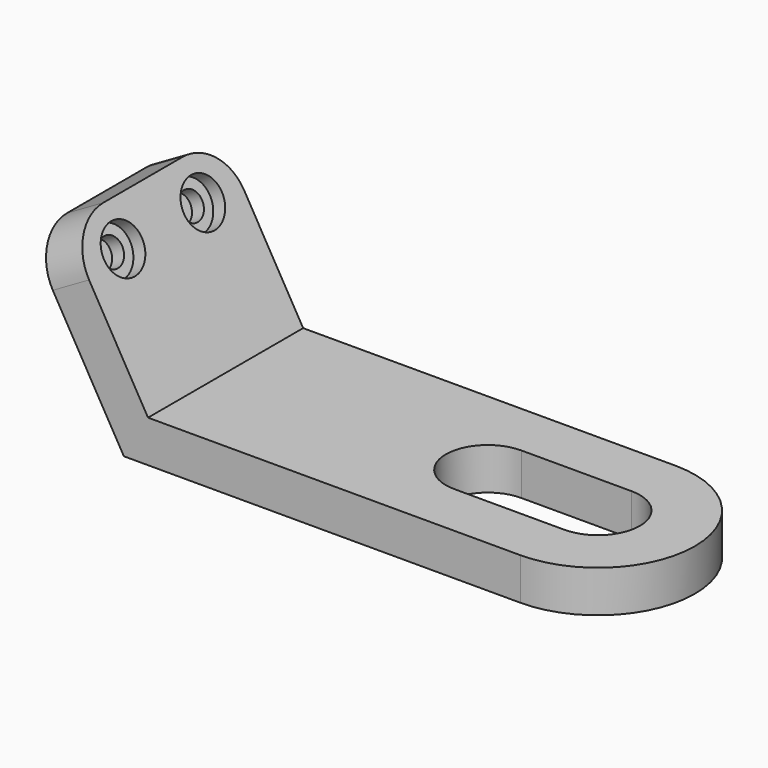
from build123d import *

# Parameters (mm, degrees)
F1_DEPTH = 44.704
F3_DEPTH = 9.652
F4_DEPTH = 25.4
F5_R     = 10.922
F6_R     = 5.461
F6_R_2   = 3.175
F7_DEPTH = 3.175
F8_DEPTH = 6.35


with BuildPart() as f1:
    # F0 (on Front) → F1 (new body)
    with BuildSketch(Plane.XZ):
        Polygon((-5.5725847982, 0), (85.852, 0), (85.852, 9.652), (0, 9.652), (-19.05, 42.6475678842), (-27.4088771973, 37.8215678842), align=None)
    extrude(amount=F1_DEPTH)

    # F2 (on face) → F3 (join)
    with BuildSketch(Plane.XY.offset(9.652)):
        with BuildLine():
            ThreePointArc((85.852, -12.7), (92.676994652, -15.527005348), (95.504, -22.352))
            ThreePointArc((95.504, -22.352), (92.676994652, -29.176994652), (85.852, -32.004))
            Line((85.852, -32.004), (85.852, -44.704))
            ThreePointArc((85.852, -44.704), (108.204, -22.352), (85.852, 0))
            Line((85.852, 0), (85.852, -12.7))
        make_face()
    extrude(amount=-F3_DEPTH)

    # F2 (on face) → F4 (cut)
    with BuildSketch(Plane.XY.offset(9.652)):
        with BuildLine():
            ThreePointArc((85.852, -32.004), (92.676994652, -29.176994652), (95.504, -22.352))
            ThreePointArc((95.504, -22.352), (92.676994652, -15.527005348), (85.852, -12.7))
            ThreePointArc((85.852, -12.7), (76.2, -22.352), (85.852, -32.004))
        make_face()
        with BuildLine():
            ThreePointArc((85.852, -32.004), (76.2, -22.352), (85.852, -12.7))
            Line((85.852, -12.7), (60.452, -12.7))
            ThreePointArc((60.452, -12.7), (67.276994652, -15.527005348), (70.104, -22.352))
            ThreePointArc((70.104, -22.352), (67.276994652, -29.176994652), (60.452, -32.004))
            Line((60.452, -32.004), (85.852, -32.004))
        make_face()
        with BuildLine():
            ThreePointArc((70.104, -22.352), (67.276994652, -15.527005348), (60.452, -12.7))
            ThreePointArc((60.452, -12.7), (50.8, -22.352), (60.452, -32.004))
            ThreePointArc((60.452, -32.004), (67.276994652, -29.176994652), (70.104, -22.352))
        make_face()
    extrude(amount=-F4_DEPTH, mode=Mode.SUBTRACT)

    # F5
    f5_edges = [f1.edges().sort_by_distance(p)[0] for p in [
        (-23.229439, -44.704, 40.234568),
        (-23.229439, 0, 40.234568),
    ]]
    fillet(f5_edges, radius=F5_R)

    # F6 (on face) → F7 (cut)
    with BuildSketch(Plane(origin=(4.1794385987, 0, 2.413), x_dir=(0, 1, 0), z_dir=(0.8660254038, 0, 0.5))):
        with Locations((-33.782, 37.3698046379)):
            Circle(F6_R)
        with Locations((-33.782, 37.3698046379)):
            Circle(F6_R_2, mode=Mode.SUBTRACT)
        with Locations((-10.7671008632, 37.3698046379)):
            Circle(F6_R)
        with Locations((-10.7671008632, 37.3698046379)):
            Circle(F6_R_2, mode=Mode.SUBTRACT)
    extrude(amount=-F7_DEPTH, mode=Mode.SUBTRACT)

    # F8 (cut): faces of the model
    f8_faces = [f1.faces().sort_by_distance(p)[0] for p in [
        (-14.5054637203, -33.782, 34.7762001509),
        (-14.5054637203, -10.7671008632, 34.7762001509),
    ]]
    extrude(f8_faces, amount=-F8_DEPTH, mode=Mode.SUBTRACT)


solid = f1.part
